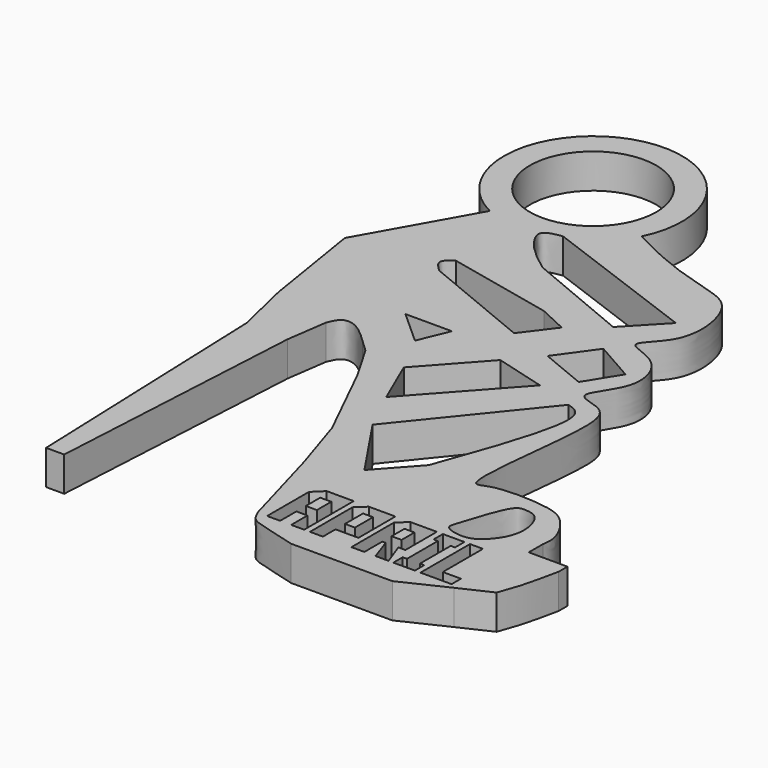
from build123d import *

# Parameters (mm, degrees)
F0_R     = 2.7402986622
F2_DEPTH = 1.5
F1_W     = 0.4792198768
F1_H     = 0.7819828136
F1_W_2   = 0.4327838469
F1_H_2   = 0.9788715972
F1_H_3   = 0.7002553956
F3_DEPTH = 25.4


with BuildPart() as f2:
    # F0 (on Top) → F2 (new body)
    with BuildSketch(Plane.XY):
        with BuildLine():
            Line((-17.0947425067, 15.347304754), (-16.6768115014, 3.9563099854))
            Line((-16.6768115014, 3.9563099854), (-15.8903729171, 3.9563099854))
            Line((-15.8903729171, 3.9563099854), (-15.2638498694, 15.284220688))
            Line((-15.2638498694, 15.284220688), (-15.0128984824, 17.040880397))
            add(Edge.make_bspline(
                [(-15.0128984824, 17.040880397), (-14.9304618209, 17.2467806475), (-14.7674447872, 17.6539447355), (-14.0455459233, 17.5759381815), (-13.5290616404, 17.081269949), (-13.2248708978, 16.7899280787)],
                knots=[0, 0, 0, 0, 0.2960248285, 0.5853838398, 1, 1, 1, 1], degree=3))
            Line((-13.2248708978, 16.7899280787), (-12.6916002482, 16.2880253047))
            Line((-12.6916002482, 16.2880253047), (-11.7819020525, 14.7195803002))
            Line((-11.7819020525, 14.7195803002), (-10.0252432749, 11.1435260624))
            Line((-10.0252432749, 11.1435260624), (-9.2096515, 8.6026443169))
            Line((-9.2096515, 8.6026443169), (-8.1272292882, 4.7516552731))
            add(Edge.make_bspline(
                [(-8.1272292882, 4.7516552731), (-8.0519695337, 4.5832987422), (-7.8968477242, 4.2362903062), (-7.2759957137, 4.0469899119), (-6.3654077617, 3.8006542279), (-5.7999263518, 3.647678066)],
                knots=[0, 0, 0, 0, 0.263163092, 0.5424191889, 1, 1, 1, 1], degree=3))
            Line((-5.7999263518, 3.647678066), (-3.323437646, 3.647678066))
            Line((-3.323437646, 3.647678066), (-1.4138559345, 3.647678066))
            Line((-1.4138559345, 3.647678066), (0.525563024, 4.5726317912))
            Line((0.525563024, 4.5726317912), (1.8682383234, 5.1992135122))
            add(Edge.make_bspline(
                [(1.8682383234, 5.1992135122), (1.972386624, 5.4748378165), (2.21411746, 6.1145687876), (2.4310343978, 7.1284710144), (2.5544939563, 7.705539465)],
                knots=[0, 0, 0, 0, 0.4308440841, 1, 1, 1, 1], degree=3))
            Line((2.5544939563, 7.705539465), (2.5544939563, 8.1829344854))
            Line((2.5544939563, 8.1829344854), (0.8741955971, 8.1829344854))
            Line((0.8741955971, 8.1829344854), (0.8741955971, 8.9458767325))
            add(Edge.make_bspline(
                [(0.8741955971, 8.9458767325), (0.9042829382, 9.1362461938), (0.9779242264, 9.6021915382), (0.2433018959, 10.8828957979), (-0.8877019702, 11.2452606832), (-3.0694174939, 11.3036445811), (-4.1429526474, 10.5007215586), (-3.19835981, 16.2572556985), (-3.5230107509, 18.039638691), (-5.4233853606, 18.1586829155), (-3.6491407444, 19.8693638524), (-4.3941738209, 21.9702283678), (-6.4437681223, 22.226094831), (-4.4232516561, 23.5262967878), (-5.1177133162, 27.5487013005), (-7.1914535947, 26.8060844392), (-10.6135327369, 28.6726728082)],
                knots=[0, 0, 0, 0, 0.0416488288, 0.1020635384, 0.1602201826, 0.2381474007, 0.2774853382, 0.3959474956, 0.4670092378, 0.5205985117, 0.5890224041, 0.6626400943, 0.7214761865, 0.786332385, 0.8732150374, 1, 1, 1, 1], degree=3))
            ThreePointArc((-10.6135327369, 28.6726728082), (-15.3231157261, 34.0179894027), (-15.7984998077, 26.9097834826))
            Line((-15.7984998077, 26.9097834826), (-18.3909852058, 22.2951620817))
            Line((-18.3909852058, 22.2951620817), (-17.6650900394, 17.7842397243))
            Line((-17.6650900394, 17.7842397243), (-17.0947425067, 15.347304754))
        make_face()
        Polygon((-11.8339837041, 17.898992976), (-13.300566934, 19.2190613598), (-11.2888226286, 19.2190613598), align=None, mode=Mode.SUBTRACT)
        Polygon((-10.0089872993, 14.0621947504), (-10.9034394845, 16.1299295723), (-8.6865349557, 18.592889101), (-6.479063537, 17.9839059711), align=None, mode=Mode.SUBTRACT)
        with BuildLine():
            add(Edge.make_bspline(
                [(-1.5337667428, 10.3998538107), (-1.8256591818, 10.063600913), (-2.2786486978, 8.4291230862), (-2.5326832377, 7.8573937842), (-1.5486957063, 7.6102330545), (-0.8302975041, 7.9465621521), (-0.0663747535, 9.0722252418), (-0.4710872513, 10.4602446974), (-1.1273025849, 10.5447333804), (-1.4022632342, 10.5513426124), (-1.5337667428, 10.3998538107)],
                knots=[0, 0, 0, 0, 0.192066215, 0.2859364323, 0.4022583598, 0.5190249851, 0.6680985696, 0.8155490961, 0.9134702453, 1, 1, 1, 1], degree=3))
        make_face(mode=Mode.SUBTRACT)
        with BuildLine():
            Line((-9.1044325382, 12.1916979551), (-4.8322426155, 17.4751970917))
            add(Edge.make_bspline(
                [(-5.7648901438, 11.0613186661), (-4.8422891886, 13.6058452371), (-3.5901337827, 17.0592805313), (-4.5734451551, 17.3885395084), (-4.8322426155, 17.4751970917)],
                knots=[0, 0, 0, 0, 0.7368102641, 1, 1, 1, 1], degree=3))
            Line((-5.7648901438, 11.0613186661), (-7.242214866, 9.4200251624))
            Line((-7.242214866, 9.4200251624), (-9.1044325382, 12.1916979551))
        make_face(mode=Mode.SUBTRACT)
        with BuildLine():
            Line((-14.4087206572, 23.3435686678), (-9.7831888124, 22.3268102854))
            Line((-9.7831888124, 22.3268102854), (-8.5516227409, 21.7539891601))
            Line((-8.5516227409, 21.7539891601), (-9.554060176, 20.4221792519))
            Line((-9.554060176, 20.4221792519), (-14.4087206572, 22.4270541221))
            add(Edge.make_bspline(
                [(-14.4087206572, 22.4270541221), (-14.6009926075, 22.6128483706), (-14.9683145363, 22.9677951093), (-14.5893290095, 23.222288136), (-14.4087206572, 23.3435686678)],
                knots=[0, 0, 0, 0, 0.5234426133, 1, 1, 1, 1], degree=3))
        make_face(mode=Mode.SUBTRACT)
        with BuildLine():
            add(Edge.make_bspline(
                [(-11.8239307776, 24.7935242951), (-12.2425968127, 25.1071804198), (-12.9938392587, 25.6699960641), (-13.7222818392, 26.8414064237), (-13.0229658794, 26.9525351052), (-12.6927299425, 27.0050130785)],
                knots=[0, 0, 0, 0, 0.3991794442, 0.7162762606, 1, 1, 1, 1], degree=3))
            Line((-12.6927299425, 27.0050130785), (-5.7423342951, 24.4249422103))
            Line((-5.7423342951, 24.4249422103), (-7.2166603059, 22.8716339916))
            Line((-7.2166603059, 22.8716339916), (-11.8239307776, 24.7935242951))
        make_face(mode=Mode.SUBTRACT)
        with Locations((-14.0810732747, 30.3649244499)):
            Circle(F0_R, mode=Mode.SUBTRACT)
        Polygon((-7.6241628267, 19.8253262788), (-6.479063537, 21.4202869684), (-4.7222711146, 20.4221792519), (-5.6092163068, 18.9931948336), align=None, mode=Mode.SUBTRACT)
    extrude(amount=F2_DEPTH)

    # F1 (on Top) → F3 (cut)
    with BuildSketch(Plane.XY):
        Polygon((-7.7083995566, 4.7276820987), (-7.1437373811, 4.7276820987), (-7.1437373811, 5.6099667444), (-6.6645175043, 5.6099667444), (-6.6645175043, 4.7276820987), (-6.1017127692, 4.7276820987), (-6.1017127692, 7.4135423264), (-7.2756157207, 7.4135423264), (-7.7083995566, 6.9881882517), align=None)
        with Locations((-6.9041274427, 6.5117545354)):
            Rectangle(F1_W, F1_H, mode=Mode.SUBTRACT)
        Polygon((-5.8509581834, 4.7276820987), (-5.2881534483, 4.7276820987), (-5.2881534483, 5.4093630802), (-4.2925648663, 5.4093630802), (-4.2925648663, 7.4135423264), (-5.444178523, 7.4135423264), (-5.8509581834, 7.0346242817), align=None)
        with Locations((-5.0717615249, 6.4133101436)):
            Rectangle(F1_W_2, F1_H_2, mode=Mode.SUBTRACT)
        Polygon((-3.3415548849, 5.6991239346), (-3.0072154408, 4.7276820987), (-2.4425532545, 4.7276820987), (-2.7991820043, 5.7065536959), (-2.4945616163, 5.7065536959), (-2.4945616163, 7.4135423264), (-3.6443178326, 7.4135423264), (-4.0529549334, 7.0346242817), (-4.0529549334, 4.7276820987), (-3.4901501983, 4.7276820987), (-3.4901501983, 5.6991239346), align=None)
        with Locations((-3.2737582749, 6.5526182444)):
            Rectangle(F1_W_2, F1_H_3, mode=Mode.SUBTRACT)
        Polygon((-1.3002268104, 4.7276820987), (-1.3002268104, 5.2366210317), (-1.4859709521, 5.2366210317), (-1.4859709521, 6.9046033934), (-1.3002268104, 6.9046033934), (-1.3002268104, 7.4135423264), (-2.234519818, 7.4135423264), (-2.234519818, 6.9046033934), (-2.0487756872, 6.9046033934), (-2.0487756872, 5.2366210317), (-2.234519818, 5.2366210317), (-2.234519818, 4.7276820987), align=None)
        Polygon((-1.0587594371, 7.4135423264), (-1.0587594371, 4.7276820987), (0.2916004434, 4.7276820987), (0.2916004434, 5.2366210317), (-0.4959546911, 5.2366210317), (-0.4959546911, 7.4135423264), align=None)
    extrude(amount=F3_DEPTH, mode=Mode.SUBTRACT)


solid = f2.part
